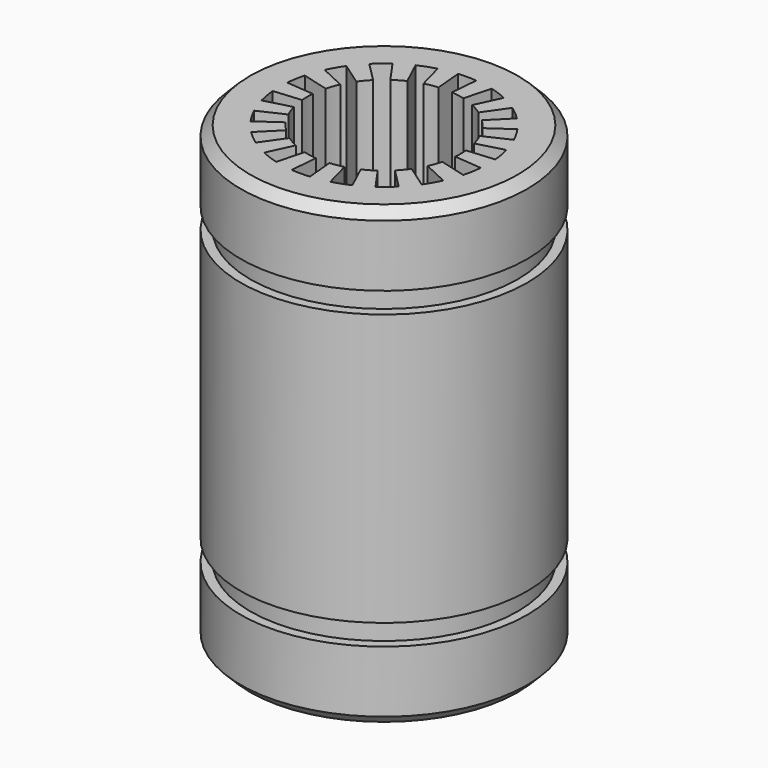
from build123d import *

# Parameters (mm, degrees)
POCKET_DEPTH       = 76.251136
POCKET_DEPTH_BACK  = 76.251136
POLARPATTERN_COUNT = 18
CHAMFER_SIZE       = 0.5


with BuildPart() as part:
    # Sketch → Revolution (revolve)
    with BuildSketch(Plane.XZ):
        Polygon((-7.55, 7.15), (-7.05, 7.15), (-7.05, 8.25), (-7.55, 8.25), (-7.55, 12), (-4.05, 12), (-4.05, -12), (-7.55, -12), (-7.55, -8.25), (-7.05, -8.25), (-7.05, -7.15), (-7.55, -7.15), align=None)
    revolve(axis=Axis((0, 0, 0), (0, 0, 1)))

    # Sketch001 → Pocket (cut, two sides)
    with BuildSketch(Plane.XY) as pocket_sk:
        with BuildLine():
            Line((0, 0), (-0.479357, 5.479071))
            ThreePointArc((0.479357, 5.479071), (0, 5.5), (-0.479357, 5.479071))
            Line((0.479357, 5.479071), (0, 0))
        make_face()
    pocket = extrude(amount=-POCKET_DEPTH, mode=Mode.SUBTRACT) + extrude(pocket_sk.sketch, amount=POCKET_DEPTH_BACK, mode=Mode.SUBTRACT)

    # PolarPattern: Pocket ×18 about axis
    polarpattern_axis = Axis((0, 0, 0), (0, 0, 1))
    for i in range(1, POLARPATTERN_COUNT):
        add(pocket.rotate(polarpattern_axis, i * 360 / POLARPATTERN_COUNT), mode=Mode.SUBTRACT)

    # Chamfer
    chamfer_edges = [part.edges().sort_by_distance(p)[0] for p in [
        (7.55, 0, 12),
        (7.55, 0, -12),
    ]]
    chamfer(chamfer_edges, length=CHAMFER_SIZE)


solid = part.part
